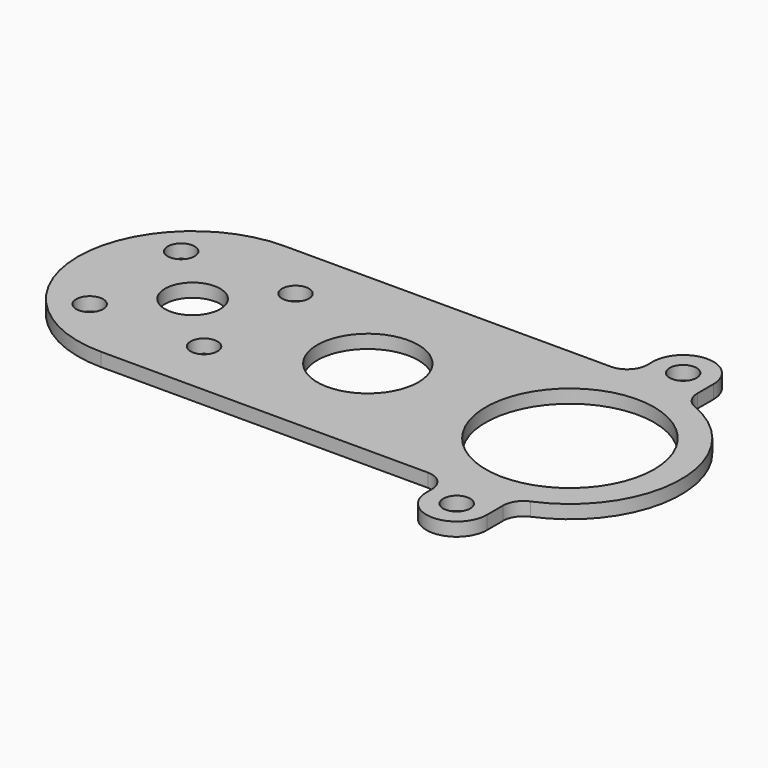
from build123d import *

# Parameters (mm, degrees)
F0_R     = 1
F0_R_2   = 2.05
F0_R_3   = 3.75
F0_R_4   = 6.25
F1_DEPTH = 1


with BuildPart() as f1:
    # F0 (on Top) → F1 (new body)
    with BuildSketch(Plane.XY):
        with BuildLine():
            Line((16.25, 9), (16.25, 10.5))
            ThreePointArc((16.25, 10.5), (14, 12.75), (11.75, 10.5))
            Line((11.75, 10.5), (11.75, 10))
            ThreePointArc((11.75, 10), (11.31066, 8.93934), (10.25, 8.5))
            Line((10.25, 8.5), (-14, 8.5))
            ThreePointArc((-14, 8.5), (-22.5, 0), (-14, -8.5))
            Line((-14, -8.5), (10.25, -8.5))
            ThreePointArc((10.25, -8.5), (11.31066, -8.93934), (11.75, -10))
            Line((11.75, -10), (11.75, -10.5))
            ThreePointArc((11.75, -10.5), (14, -12.75), (16.25, -10.5))
            Line((16.25, -10.5), (16.25, -9))
            ThreePointArc((16.25, -9), (16.501925, -8.16795), (17.173077, -7.615385))
            ThreePointArc((17.173077, -7.615385), (22.25, 0), (17.173077, 7.615385))
            ThreePointArc((17.173077, 7.615385), (16.501925, 8.16795), (16.25, 9))
        make_face()
        with Locations((-18.242641, -4.242641)):
            Circle(F0_R, mode=Mode.SUBTRACT)
        with Locations((-9.757359, -4.242641)):
            Circle(F0_R, mode=Mode.SUBTRACT)
        with Locations((14, -10.5)):
            Circle(F0_R, mode=Mode.SUBTRACT)
        with Locations((-14, 0)):
            Circle(F0_R_2, mode=Mode.SUBTRACT)
        with Locations((-18.242641, 4.242641)):
            Circle(F0_R, mode=Mode.SUBTRACT)
        with Locations((-9.757359, 4.242641)):
            Circle(F0_R, mode=Mode.SUBTRACT)
        with Locations((-1, 0)):
            Circle(F0_R_3, mode=Mode.SUBTRACT)
        with Locations((14, 0)):
            Circle(F0_R_4, mode=Mode.SUBTRACT)
        with Locations((14, 10.5)):
            Circle(F0_R, mode=Mode.SUBTRACT)
    extrude(amount=F1_DEPTH)


solid = f1.part
